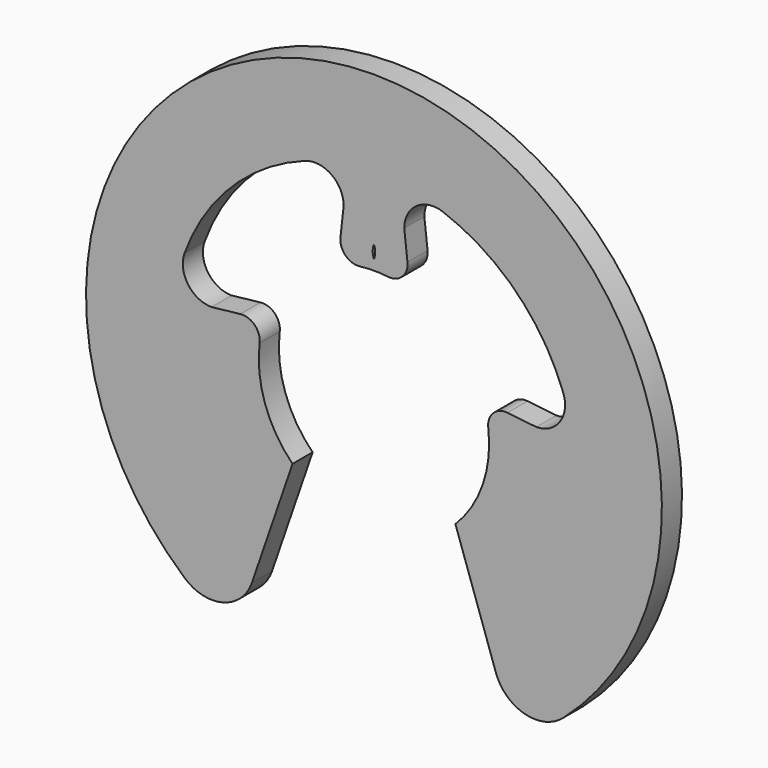
from build123d import *

# Parameters (mm, degrees)
F1_DEPTH = 1.2
F2_R     = 2


with BuildPart() as f1:
    # F0 (on Front) → F1 (new body)
    with BuildSketch(Plane.XZ):
        with BuildLine():
            Line((-59.002776, -3.889087), (-56.204975, -12.014492))
            ThreePointArc((-56.204975, -12.014492), (-62.891863, 13.75), (-69.578752, -12.014492))
            Line((-69.578752, -12.014492), (-66.780951, -3.889087))
            ThreePointArc((-66.780951, -3.889087), (-68.092215, -1.790625), (-68.350867, 0.670281))
            ThreePointArc((-68.350867, 0.670281), (-68.585499, 1.357843), (-69.270437, 1.600029))
            Line((-69.270437, 1.600029), (-70.644327, 1.446666))
            ThreePointArc((-70.644327, 1.446666), (-71.770661, 2.032999), (-71.936405, 3.291944))
            ThreePointArc((-71.936405, 3.291944), (-69.697766, 6.805903), (-66.183807, 9.044541))
            ThreePointArc((-66.183807, 9.044541), (-64.924862, 8.878798), (-64.338529, 7.752464))
            Line((-64.338529, 7.752464), (-64.491892, 6.378573))
            ThreePointArc((-64.491892, 6.378573), (-64.249706, 5.693636), (-63.562145, 5.459004))
            ThreePointArc((-63.562145, 5.459004), (-62.891863, 5.5), (-62.221582, 5.459004))
            ThreePointArc((-62.221582, 5.459004), (-61.53402, 5.693636), (-61.291835, 6.378573))
            Line((-61.291835, 6.378573), (-61.445197, 7.752464))
            ThreePointArc((-61.445197, 7.752464), (-60.858865, 8.878798), (-59.599919, 9.044541))
            ThreePointArc((-59.599919, 9.044541), (-56.085961, 6.805903), (-53.847322, 3.291944))
            ThreePointArc((-53.847322, 3.291944), (-54.013065, 2.032999), (-55.139399, 1.446666))
            Line((-55.139399, 1.446666), (-56.51329, 1.600029))
            ThreePointArc((-56.51329, 1.600029), (-57.198227, 1.357843), (-57.432859, 0.670281))
            ThreePointArc((-57.432859, 0.670281), (-57.691511, -1.790625), (-59.002776, -3.889087))
        make_face()
        with BuildLine():
            ThreePointArc((-62.891863, 5.971946), (-62.953357, 6.286126), (-62.891863, 6.600305))
            ThreePointArc((-62.891863, 6.600305), (-62.830369, 6.286126), (-62.891863, 5.971946))
        make_face(mode=Mode.SUBTRACT)
    extrude(amount=F1_DEPTH)

    # F2
    f2_edges = [f1.edges().sort_by_distance(p)[0] for p in [
        (-69.578752, -0.6, -12.014492),
        (-56.204975, -0.6, -12.014492),
    ]]
    fillet(f2_edges, radius=F2_R)


solid = f1.part
